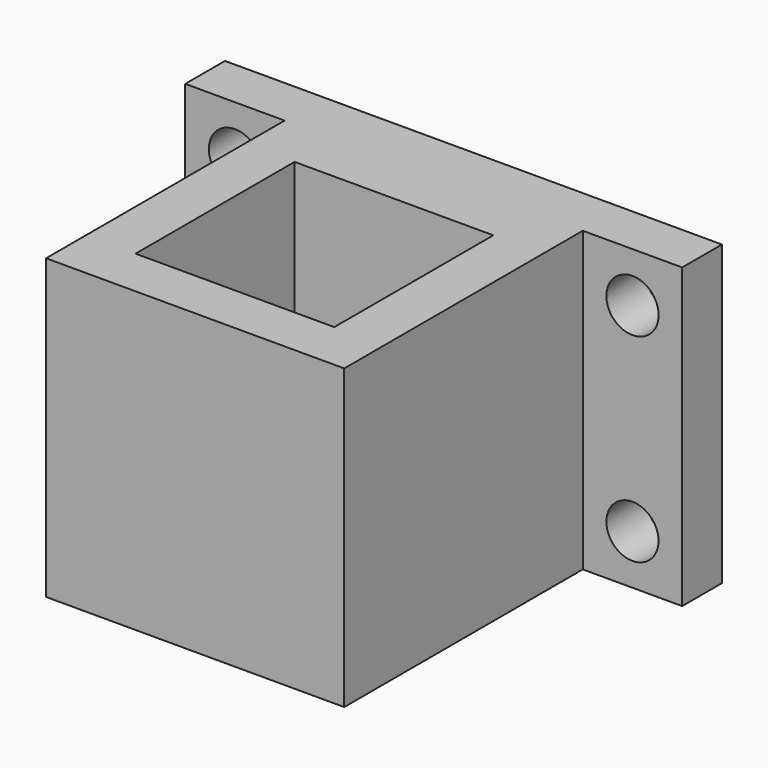
from build123d import *

# Parameters (mm, degrees)
SKETCH_W        = 50
SKETCH_H        = 30
PAD_DEPTH       = 5
SKETCH001_R     = 2.625
POCKET_DEPTH    = 5
SKETCH002_W     = 30
SKETCH002_H     = 30
PAD001_DEPTH    = 30
SKETCH003_W     = 20
SKETCH003_H     = 20
POCKET001_DEPTH = 30


with BuildPart() as part:
    # Sketch → Pad (new body)
    with BuildSketch(Plane.XZ):
        Rectangle(SKETCH_W, SKETCH_H)
    extrude(amount=PAD_DEPTH)

    # Sketch001 (on Face6 of Pad) → Pocket (cut)
    with BuildSketch(Plane.XZ.offset(5)):
        with Locations((-20, 10)):
            Circle(SKETCH001_R)
        with Locations((20, 10)):
            Circle(SKETCH001_R)
        with Locations((20, -10)):
            Circle(SKETCH001_R)
        with Locations((-20, -10)):
            Circle(SKETCH001_R)
    extrude(amount=-POCKET_DEPTH, mode=Mode.SUBTRACT)

    # Sketch002 (on Face5 of Pocket) → Pad001 (join)
    with BuildSketch(Plane.XZ.offset(5)):
        Rectangle(SKETCH002_W, SKETCH002_H)
    extrude(amount=PAD001_DEPTH)

    # Sketch003 (on Face9 of Pad001) → Pocket001 (cut)
    with BuildSketch(Plane(origin=(0, 0, 15), x_dir=(-1, 0, 0), z_dir=(0, 0, 1))):
        with Locations((0, 20)):
            Rectangle(SKETCH003_W, SKETCH003_H)
    extrude(amount=-POCKET001_DEPTH, mode=Mode.SUBTRACT)


solid = part.part
